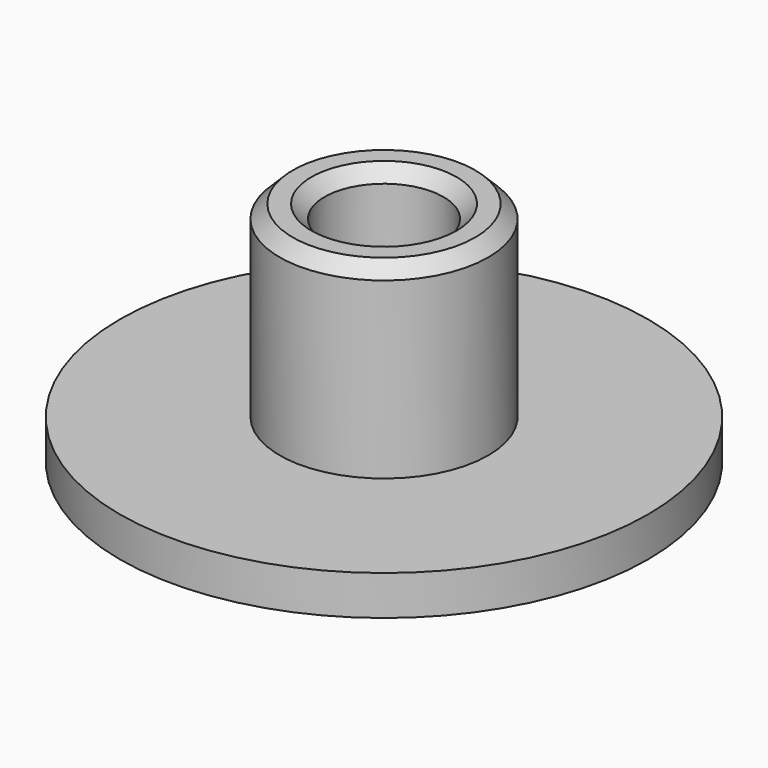
from build123d import *

# Parameters (mm, degrees)
F0_R     = 10
F1_DEPTH = 1.5
F2_R     = 3.95
F2_R_2   = 2.25
F3_DEPTH = 7.1
F4_SIZE  = 0.5


with BuildPart() as f1:
    # F0 (on Top) → F1 (new body)
    with BuildSketch(Plane.XY):
        Circle(F0_R)
    extrude(amount=F1_DEPTH)

    # F2 (on face) → F3 (join)
    with BuildSketch(Plane.XY.offset(1.5)):
        Circle(F2_R)
        Circle(F2_R_2, mode=Mode.SUBTRACT)
    extrude(amount=F3_DEPTH)

    # F4
    f4_edges = [f1.edges().sort_by_distance(p)[0] for p in [
        (-3.95, 0, 8.6),
        (-2.25, 0, 8.6),
    ]]
    chamfer(f4_edges, length=F4_SIZE)


solid = f1.part
